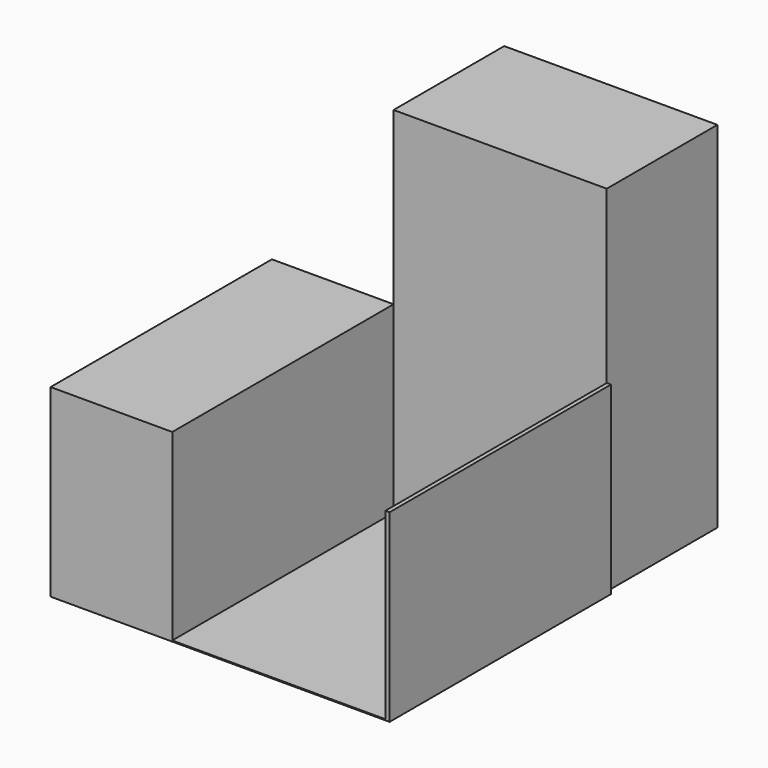
from build123d import *

# Parameters (mm, degrees)
F0_W     = 39.1457030782
F0_H     = 65.1155374944
F1_DEPTH = 25.4
F4_DEPTH = 25.4
F5_DEPTH = 25.4


with BuildPart() as f1:
    # F0 (on Front) → F1 (new body)
    with BuildSketch(Plane.XZ):
        with Locations((-17.7587817307, -1.1457260698)):
            Rectangle(F0_W, F0_H)
    extrude(amount=F1_DEPTH)


with BuildPart() as f4:
    # F3 (on face) → F4 (new body)
    with BuildSketch(Plane.XZ.offset(25.4)):
        Polygon((2.5778883137, -33.8944494724), (2.5778883137, 0), (1.8140698085, 0), (1.8140698085, -33.703494817), (-37.3316332698, -33.703494817), (-37.3316332698, 0), (-59.6733279526, 0), (-59.6733279526, -33.8944494724), align=None)
    extrude(amount=F4_DEPTH)

    # F5 (add): a face of the model
    f5_faces = [f4.faces().sort_by_distance(p)[0] for p in [
        (-46.5516742238, -50.8, -17.1065517655),
    ]]
    extrude(f5_faces, amount=F5_DEPTH)


solid = Compound([f1.part, f4.part])
